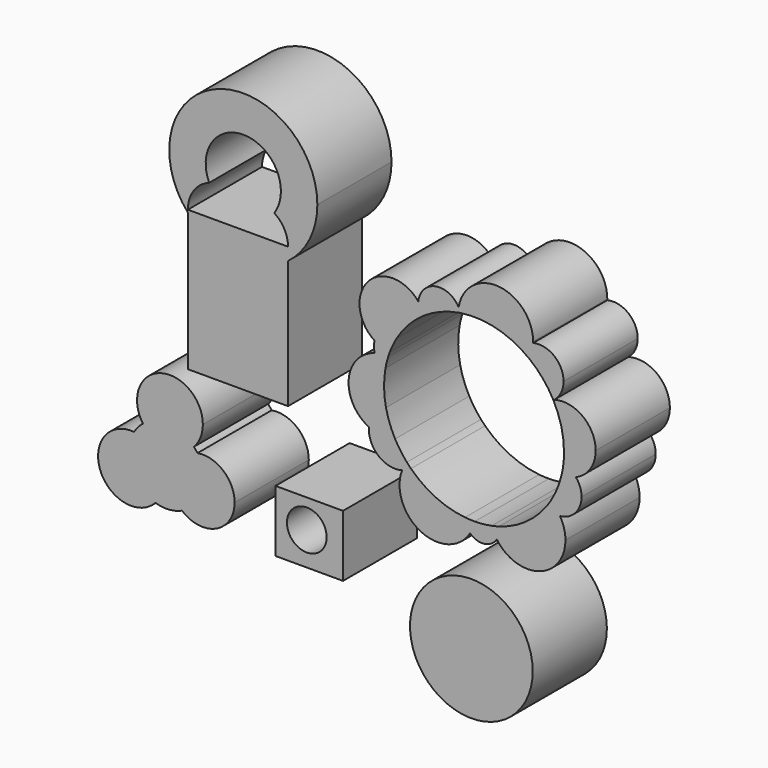
from build123d import *

# Parameters (mm, degrees)
F1_DEPTH = 25.4
F0_W     = 18.5015480965
F0_H     = 16.9086977839
F0_R     = 5.4410723948
F0_R_2   = 16.8107477908


with BuildPart() as f1:
    # F0 (on Front) → F1 (new body)
    with BuildSketch(Plane.XZ):
        with BuildLine():
            ThreePointArc((-44.105960391, -31.2155596656), (-39.701340636, -27.4006422459), (-38.0592641048, -21.8097697943))
            ThreePointArc((-38.0592641048, -21.8097697943), (-38.5247490039, -18.7424495054), (-39.8792886329, -15.9513292394))
            ThreePointArc((-39.8792886329, -15.9513292394), (-46.8550976629, -22.2370236132), (-44.105960391, -31.2155596656))
        make_face()
        with BuildLine():
            ThreePointArc((-39.8792886329, -15.9513292394), (-38.5247490039, -18.7424495054), (-38.0592641048, -21.8097697943))
            ThreePointArc((-38.0592641048, -21.8097697943), (-39.701340636, -27.4006422459), (-44.105960391, -31.2155596656))
            ThreePointArc((-44.105960391, -31.2155596656), (-34.7742718917, -32.5031076851), (-29.6964222745, -24.5687751098))
            ThreePointArc((-29.6964222745, -24.5687751098), (-32.7896501946, -17.8988586822), (-39.8792886329, -15.9513292394))
        make_face()
        with BuildLine():
            ThreePointArc((-44.105960391, -31.2155596656), (-46.8550976629, -22.2370236132), (-39.8792886329, -15.9513292394))
            ThreePointArc((-39.8792886329, -15.9513292394), (-40.3417982851, -15.3299965274), (-40.8495270544, -14.7450341232))
            ThreePointArc((-40.8495270544, -14.7450341232), (-48.083492635, -17.5627692138), (-54.8233426971, -13.709937761))
            ThreePointArc((-54.8233426971, -13.709937761), (-56.1705113302, -14.9921012619), (-57.2661782927, -16.4948721947))
            ThreePointArc((-57.2661782927, -16.4948721947), (-51.3655623816, -19.3982706429), (-48.9802804829, -25.5266816069))
            ThreePointArc((-48.9802804829, -25.5266816069), (-49.6089599176, -28.8437891732), (-51.4078010658, -31.7008175177))
            ThreePointArc((-51.4078010658, -31.7008175177), (-47.7125109929, -32.1258351585), (-44.105960391, -31.2155596656))
        make_face()
        with BuildLine():
            ThreePointArc((-54.8233426971, -13.709937761), (-48.083492635, -17.5627692138), (-40.8495270544, -14.7450341232))
            ThreePointArc((-40.8495270544, -14.7450341232), (-47.6343396192, -11.4991970983), (-54.8233426971, -13.709937761))
        make_face()
        with BuildLine():
            ThreePointArc((-54.8233426971, -13.709937761), (-47.6343396192, -11.4991970983), (-40.8495270544, -14.7450341232))
            ThreePointArc((-40.8495270544, -14.7450341232), (-39.0401194284, -11.8938912699), (-38.4073600457, -8.5768764839))
            ThreePointArc((-38.4073600457, -8.5768764839), (-50.1069455323, 0.0230189296), (-54.8233426971, -13.709937761))
        make_face()
        with BuildLine():
            ThreePointArc((-57.2661782927, -16.4948721947), (-66.5049464666, -28.7857797019), (-51.4078010658, -31.7008175177))
            ThreePointArc((-51.4078010658, -31.7008175177), (-58.0456640551, -25.5266816069), (-57.2661782927, -16.4948721947))
        make_face()
        with BuildLine():
            ThreePointArc((-57.2661782927, -16.4948721947), (-58.0456640551, -25.5266816069), (-51.4078010658, -31.7008175177))
            ThreePointArc((-51.4078010658, -31.7008175177), (-49.6089599176, -28.8437891732), (-48.9802804829, -25.5266816069))
            ThreePointArc((-48.9802804829, -25.5266816069), (-51.3655623816, -19.3982706429), (-57.2661782927, -16.4948721947))
        make_face()
    extrude(amount=F1_DEPTH)


with BuildPart() as f1b:
    # F0 (on Front) → F1, piece 2 (new body)
    with BuildSketch(Plane.XZ):
        with BuildLine():
            Line((-15.0707969442, 41.9041663408), (-42.5168015063, 41.9041663408))
            Line((-42.5168015063, 41.9041663408), (-42.5168015063, 41.1980028544))
            ThreePointArc((-42.5168015063, 41.1980028544), (-29.3278937528, 34.4555273158), (-15.0707969442, 38.4734191396))
            Line((-15.0707969442, 38.4734191396), (-15.0707969442, 41.9041663408))
        make_face()
        with BuildLine():
            Line((-42.5168015063, 41.1980028544), (-42.5168015063, 41.9041663408))
            ThreePointArc((-42.5168015063, 41.9041663408), (-40.910051081, 47.0215506819), (-36.6665349653, 50.3020750911))
            ThreePointArc((-36.6665349653, 50.3020750911), (-29.5484051816, 64.7077888644), (-17.0195600007, 54.6469539404))
            ThreePointArc((-17.0195600007, 54.6469539404), (-17.4832585843, 51.5906805508), (-18.8326194536, 48.809485007))
            ThreePointArc((-18.8326194536, 48.809485007), (-16.0722684703, 45.8359195908), (-15.0707969442, 41.9041663408))
            Line((-15.0707969442, 41.9041663408), (-15.0707969442, 38.4734191396))
            ThreePointArc((-15.0707969442, 38.4734191396), (-9.1530818862, 45.6165531595), (-7.0328043403, 54.6469539404))
            ThreePointArc((-7.0328043403, 54.6469539404), (-34.5147432513, 73.6205430855), (-42.5168015063, 41.1980028544))
        make_face()
        with BuildLine():
            ThreePointArc((-15.0707969442, 38.4734191396), (-29.3278937528, 34.4555273158), (-42.5168015063, 41.1980028544))
            Line((-42.5168015063, 41.1980028544), (-42.5168015063, 3.4307504538))
            Line((-42.5168015063, 3.4307504538), (-15.0707969442, 3.4307504538))
            Line((-15.0707969442, 3.4307504538), (-15.0707969442, 38.4734191396))
        make_face()
    extrude(amount=F1_DEPTH)


with BuildPart() as f1c:
    # F0 (on Front) → F1, piece 3 (new body)
    with BuildSketch(Plane.XZ):
        with BuildLine():
            ThreePointArc((57.6483064262, 28.5192779382), (59.8161967898, 22.8929664588), (60.55352841, 16.9086977839))
            ThreePointArc((60.55352841, 16.9086977839), (60.5134329623, 15.5032254597), (60.3932770401, 14.1023248017))
            ThreePointArc((60.3932770401, 14.1023248017), (62.2714862871, 13.2999587282), (63.8137559237, 11.9609793934))
            ThreePointArc((63.8137559237, 11.9609793934), (67.7570534198, 15.2396195477), (69.2352365393, 20.1502255256))
            ThreePointArc((69.2352365393, 20.1502255256), (65.6933667008, 27.2544700874), (57.8881716099, 28.7015576243))
            ThreePointArc((57.8881716099, 28.7015576243), (57.7692578437, 28.6090770898), (57.6483064262, 28.5192779382))
        make_face()
        with BuildLine():
            ThreePointArc((57.5980114218, 28.612999071), (57.6232094679, 28.5661656287), (57.6483064262, 28.5192779382))
            ThreePointArc((57.6483064262, 28.5192779382), (57.7692578437, 28.6090770898), (57.8881716099, 28.7015576243))
            ThreePointArc((57.8881716099, 28.7015576243), (57.7427139718, 28.6585153627), (57.5980114218, 28.612999071))
        make_face()
        with BuildLine():
            ThreePointArc((63.8137559237, 11.9609793934), (62.2714862871, 13.2999587282), (60.3932770401, 14.1023248017))
            ThreePointArc((60.3932770401, 14.1023248017), (60.1875660933, 12.6766371815), (59.898940815, 11.2653974313))
            ThreePointArc((59.898940815, 11.2653974313), (61.8957091687, 11.3916613164), (63.8137559237, 11.9609793934))
        make_face()
        with BuildLine():
            ThreePointArc((51.0589278362, 36.35083348), (54.7302229927, 32.8214297216), (57.5980114218, 28.612999071))
            ThreePointArc((57.5980114218, 28.612999071), (57.7427139718, 28.6585153627), (57.8881716099, 28.7015576243))
            ThreePointArc((57.8881716099, 28.7015576243), (59.7617981113, 31.0473321559), (60.4305932211, 33.9740790737))
            ThreePointArc((60.4305932211, 33.9740790737), (57.8509045854, 39.2760440121), (52.0870420266, 40.5184264284))
            ThreePointArc((52.0870420266, 40.5184264284), (51.7930659491, 38.3803376037), (51.0589278362, 36.35083348))
        make_face()
        with BuildLine():
            ThreePointArc((63.8137559237, 11.9609793934), (61.8957091687, 11.3916613164), (59.898940815, 11.2653974313))
            ThreePointArc((59.898940815, 11.2653974313), (58.6975117824, 7.5242103658), (56.9169477045, 4.0214251963))
            ThreePointArc((56.9169477045, 4.0214251963), (58.323864183, 2.7107346584), (59.4637388064, 1.1621838822))
            ThreePointArc((59.4637388064, 1.1621838822), (63.6716873797, 3.3061432275), (65.3641596788, 7.7151034662))
            ThreePointArc((65.3641596788, 7.7151034662), (64.9644339318, 9.9751484986), (63.8137559237, 11.9609793934))
        make_face()
        with BuildLine():
            ThreePointArc((48.4070297685, 38.1539810334), (49.7623287591, 37.2955723838), (51.0589278362, 36.35083348))
            ThreePointArc((51.0589278362, 36.35083348), (51.7930659491, 38.3803376037), (52.0870420266, 40.5184264284))
            ThreePointArc((52.0870420266, 40.5184264284), (50.0498402913, 39.6431180923), (48.4070297685, 38.1539810334))
        make_face()
        with BuildLine():
            ThreePointArc((59.4637388064, 1.1621838822), (58.323864183, 2.7107346584), (56.9169477045, 4.0214251963))
            ThreePointArc((56.9169477045, 4.0214251963), (56.2455052486, 2.9855578421), (55.5230523371, 1.9845993326))
            ThreePointArc((55.5230523371, 1.9845993326), (57.4290501922, 1.26507424), (59.4637388064, 1.1621838822))
        make_face()
        with BuildLine():
            ThreePointArc((32.1725417924, 41.2784003418), (40.5594966858, 41.1176090051), (48.4070297685, 38.1539810334))
            ThreePointArc((48.4070297685, 38.1539810334), (50.0498402913, 39.6431180923), (52.0870420266, 40.5184264284))
            ThreePointArc((52.0870420266, 40.5184264284), (52.0908434142, 40.6797488704), (52.0921106476, 40.841111118))
            ThreePointArc((52.0921106476, 40.841111118), (42.6507517291, 51.0814134273), (31.6788914945, 42.5011259843))
            ThreePointArc((31.6788914945, 42.5011259843), (31.9599990129, 41.9036039637), (32.1725417924, 41.2784003418))
        make_face()
        with BuildLine():
            ThreePointArc((59.4637388064, 1.1621838822), (57.4290501922, 1.26507424), (55.5230523371, 1.9845993326))
            ThreePointArc((55.5230523371, 1.9845993326), (49.8282207146, -3.4332177847), (42.7175500908, -6.7831749196))
            ThreePointArc((42.7175500908, -6.7831749196), (42.7774735859, -7.2122685718), (42.7975051785, -7.6450628912))
            ThreePointArc((42.7975051785, -7.6450628912), (42.6246726898, -8.9058994461), (42.1189259159, -10.0737179628))
            ThreePointArc((42.1189259159, -10.0737179628), (53.699537359, -14.0303033075), (60.9423887087, -4.1659111157))
            ThreePointArc((60.9423887087, -4.1659111157), (60.5658702226, -1.4011777723), (59.4637388064, 1.1621838822))
        make_face()
        with BuildLine():
            ThreePointArc((31.5493209593, 41.1748779039), (31.860599755, 41.2286355309), (32.1725417924, 41.2784003418))
            ThreePointArc((32.1725417924, 41.2784003418), (31.9599990129, 41.9036039637), (31.6788914945, 42.5011259843))
            ThreePointArc((31.6788914945, 42.5011259843), (31.5925816009, 41.8401048367), (31.5493209593, 41.1748779039))
        make_face()
        with BuildLine():
            ThreePointArc((22.2173461598, 37.416117792), (26.6895599589, 39.7765847769), (31.5493209593, 41.1748779039))
            ThreePointArc((31.5493209593, 41.1748779039), (31.5925816009, 41.8401048367), (31.6788914945, 42.5011259843))
            ThreePointArc((31.6788914945, 42.5011259843), (25.3424653448, 45.4800632646), (20.6259099925, 40.3052715511))
            ThreePointArc((20.6259099925, 40.3052715511), (21.5539168866, 38.9335634819), (22.2173461598, 37.416117792))
        make_face()
        with BuildLine():
            ThreePointArc((42.7975051785, -7.6450628912), (42.7774735859, -7.2122685718), (42.7175500908, -6.7831749196))
            ThreePointArc((42.7175500908, -6.7831749196), (41.7337848952, -7.0443829777), (40.740076, -7.2647604747))
            ThreePointArc((40.740076, -7.2647604747), (41.3226161462, -8.7217064114), (42.1189259159, -10.0737179628))
            ThreePointArc((42.1189259159, -10.0737179628), (42.6246726898, -8.9058994461), (42.7975051785, -7.6450628912))
        make_face()
        with BuildLine():
            ThreePointArc((42.1189259159, -10.0737179628), (41.3226161462, -8.7217064114), (40.740076, -7.2647604747))
            ThreePointArc((40.740076, -7.2647604747), (38.4295601819, -7.6143955676), (36.0963201413, -7.7436973717))
            ThreePointArc((36.0963201413, -7.7436973717), (35.5985832283, -9.4185975159), (34.8278391678, -10.9867129837))
            ThreePointArc((34.8278391678, -10.9867129837), (38.6942647568, -12.294158708), (42.1189259159, -10.0737179628))
        make_face()
        with BuildLine():
            ThreePointArc((21.3490231548, 36.8093949804), (21.7799255932, 37.1174206583), (22.2173461598, 37.416117792))
            ThreePointArc((22.2173461598, 37.416117792), (21.5539168866, 38.9335634819), (20.6259099925, 40.3052715511))
            ThreePointArc((20.6259099925, 40.3052715511), (20.7165868902, 38.5013024934), (21.3490231548, 36.8093949804))
        make_face()
        with BuildLine():
            ThreePointArc((14.6716683333, 29.4435243879), (17.6351847562, 33.4665529562), (21.3490231548, 36.8093949804))
            ThreePointArc((21.3490231548, 36.8093949804), (20.7165868902, 38.5013024934), (20.6259099925, 40.3052715511))
            ThreePointArc((20.6259099925, 40.3052715511), (6.8289843993, 40.6021333201), (8.6727883362, 26.9257423569))
            ThreePointArc((8.6727883362, 26.9257423569), (11.1083628612, 29.528102056), (14.6716683333, 29.4435243879))
        make_face()
        with BuildLine():
            ThreePointArc((34.8278391678, -10.9867129837), (35.5985832283, -9.4185975159), (36.0963201413, -7.7436973717))
            ThreePointArc((36.0963201413, -7.7436973717), (34.7598660992, -7.7180818666), (33.4267648963, -7.6200678704))
            ThreePointArc((33.4267648963, -7.6200678704), (33.7863412788, -9.4452857926), (34.8278391678, -10.9867129837))
        make_face()
        with BuildLine():
            ThreePointArc((34.8278391678, -10.9867129837), (33.7863412788, -9.4452857926), (33.4267648963, -7.6200678704))
            ThreePointArc((33.4267648963, -7.6200678704), (25.4268822891, -5.409128538), (18.6140751372, -0.6686609267))
            ThreePointArc((18.6140751372, -0.6686609267), (17.4573398254, -1.3821877286), (16.1870574514, -1.8654472539))
            ThreePointArc((16.1870574514, -1.8654472539), (21.3220410847, -14.9796366957), (34.8278391678, -10.9867129837))
        make_face()
        with BuildLine():
            ThreePointArc((12.7956011744, 25.5080796541), (13.646469544, 27.517354577), (14.6716683333, 29.4435243879))
            ThreePointArc((14.6716683333, 29.4435243879), (11.1083628612, 29.528102056), (8.6727883362, 26.9257423569))
            ThreePointArc((8.6727883362, 26.9257423569), (10.6478483221, 25.9658003692), (12.7956011744, 25.5080796541))
        make_face()
        with BuildLine():
            ThreePointArc((16.1870574514, -1.8654472539), (16.7593955852, -0.6325480597), (17.4874281549, 0.5153107905))
            ThreePointArc((17.4874281549, 0.5153107905), (15.752273434, 2.7018746533), (14.2754203195, 5.070572251))
            ThreePointArc((14.2754203195, 5.070572251), (10.6375695456, 4.6584160514), (7.1005627378, 5.6036217581))
            ThreePointArc((7.1005627378, 5.6036217581), (9.7068187444, -0.4873592656), (16.1870574514, -1.8654472539))
        make_face()
        with BuildLine():
            ThreePointArc((18.6140751372, -0.6686609267), (18.0409376757, -0.0860138723), (17.4874281549, 0.5153107905))
            ThreePointArc((17.4874281549, 0.5153107905), (16.7593955852, -0.6325480597), (16.1870574514, -1.8654472539))
            ThreePointArc((16.1870574514, -1.8654472539), (17.4573398254, -1.3821877286), (18.6140751372, -0.6686609267))
        make_face()
        with BuildLine():
            ThreePointArc((12.7956011744, 25.5080796541), (10.6478483221, 25.9658003692), (8.6727883362, 26.9257423569))
            ThreePointArc((8.6727883362, 26.9257423569), (8.4363768899, 25.440871957), (8.7184506356, 23.963995226))
            ThreePointArc((8.7184506356, 23.963995226), (10.5313643758, 24.2913611104), (12.3735283305, 24.2753418823))
            ThreePointArc((12.3735283305, 24.2753418823), (12.5764191083, 24.8944997273), (12.7956011744, 25.5080796541))
        make_face()
        with BuildLine():
            ThreePointArc((7.1005627378, 5.6036217581), (10.6375695456, 4.6584160514), (14.2754203195, 5.070572251))
            ThreePointArc((14.2754203195, 5.070572251), (12.779492277, 8.3527218109), (11.7784966135, 11.8180232587))
            ThreePointArc((11.7784966135, 11.8180232587), (8.5273306523, 9.3974866565), (7.1005627378, 5.6036217581))
        make_face()
        with BuildLine():
            ThreePointArc((11.6420996411, 21.3037024767), (9.861453998, 22.2834659432), (8.7184506356, 23.963995226))
            ThreePointArc((8.7184506356, 23.963995226), (1.5574294353, 15.3435437789), (7.1005627378, 5.6036217581))
            ThreePointArc((7.1005627378, 5.6036217581), (8.5273306523, 9.3974866565), (11.7784966135, 11.8180232587))
            ThreePointArc((11.7784966135, 11.8180232587), (11.2497286463, 16.554240223), (11.6420996411, 21.3037024767))
        make_face()
        with BuildLine():
            ThreePointArc((12.3735283305, 24.2753418823), (10.5313643758, 24.2913611104), (8.7184506356, 23.963995226))
            ThreePointArc((8.7184506356, 23.963995226), (9.861453998, 22.2834659432), (11.6420996411, 21.3037024767))
            ThreePointArc((11.6420996411, 21.3037024767), (11.9616587874, 22.8008826549), (12.3735283305, 24.2753418823))
        make_face()
    extrude(amount=F1_DEPTH)


with BuildPart() as f1d:
    # F0 (on Front) → F1, piece 4 (new body)
    with BuildSketch(Plane.XZ):
        with Locations((-9.2507740483, -25.3630466759)):
            Rectangle(F0_W, F0_H)
        with Locations((-9.9246706814, -24.7504133731)):
            Circle(F0_R, mode=Mode.SUBTRACT)
    extrude(amount=F1_DEPTH)


with BuildPart() as f1e:
    # F0 (on Front) → F1, piece 5 (new body)
    with BuildSketch(Plane.XZ):
        with Locations((35.165194422, -38.7184694409)):
            Circle(F0_R_2)
    extrude(amount=F1_DEPTH)


solid = Compound([f1.part, f1b.part, f1c.part, f1d.part, f1e.part])
